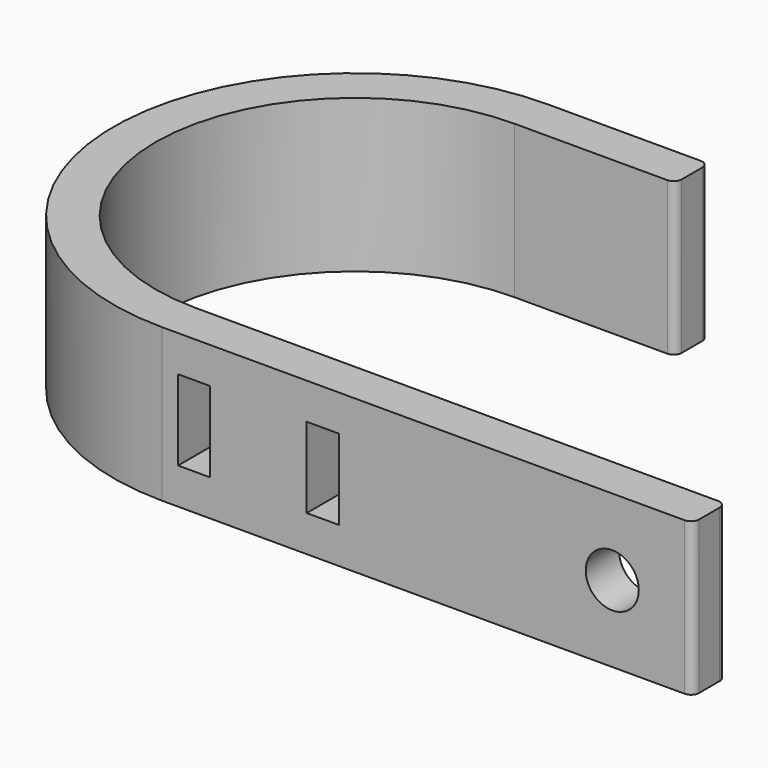
from build123d import *

# Parameters (mm, degrees)
F1_DEPTH = 4.75
F5_D     = 3.3
F6_R     = 0.5
F7_W     = 2
F7_H     = 5
F8_DEPTH = 2.6


with BuildPart() as f1:
    # F0 (on Top) → F1 (new body, symmetric)
    with BuildSketch(Plane.XY):
        with BuildLine():
            ThreePointArc((-13.1193586894, 20.7838158578), (-28.1193586894, 5.7838158578), (-13.1193586894, -9.2161841422))
            Line((-13.1193586894, -9.2161841422), (19.8806413106, -9.2161841422))
            Line((19.8806413106, -9.2161841422), (19.8806413106, -6.6161841422))
            Line((19.8806413106, -6.6161841422), (-13.1193586894, -6.6161841422))
            ThreePointArc((-13.1193586894, -6.6161841422), (-25.5193586894, 5.7838158578), (-13.1193586894, 18.1838158578))
            Line((-13.1193586894, 18.1838158578), (-3.1193586894, 18.1838158578))
            Line((-3.1193586894, 18.1838158578), (-3.1193586894, 20.7838158578))
            Line((-3.1193586894, 20.7838158578), (-13.1193586894, 20.7838158578))
        make_face()
    extrude(amount=F1_DEPTH, both=True)

    # F5 (through all)
    with Locations(Plane(origin=(0, -6.6161841422, 0), x_dir=(-1, 0, 0), z_dir=(0, 1, 0))):
        with Locations((-14.8806413106, 0)):
            Hole(F5_D / 2)

    # F6
    f6_edges = [f1.edges().sort_by_distance(p)[0] for p in [
        (-3.119359, 20.783816, 0),
        (-3.119359, 18.183816, 0),
        (19.880641, -6.616184, 0),
        (19.880641, -9.216184, 0),
    ]]
    fillet(f6_edges, radius=F6_R)

    # F7 (on face) → F8 (cut, through all)
    with BuildSketch(Plane.XZ.offset(9.2161841422)):
        with Locations((-3.1193586894, 0)):
            Rectangle(F7_W, F7_H)
        with Locations((-11.1193586894, 0)):
            Rectangle(F7_W, F7_H)
    extrude(amount=-F8_DEPTH, mode=Mode.SUBTRACT)


with BuildPart() as f3:
    # F2 (on Top) → F3 (revolve)
    with BuildSketch(Plane.XY):
        with BuildLine():
            Line((-8.1193586894, 22.7838158578), (-8.1193586894, 20.7838158578))
            Line((-8.1193586894, 20.7838158578), (-3.6193586894, 20.7838158578))
            ThreePointArc((-3.6193586894, 20.7838158578), (-5.6193298957, 22.3463806435), (-8.1193586894, 22.7838158578))
        make_face()
    revolve(axis=Axis((-8.1193586894, 21.7838158578, 0), (0, 1, 0)))


solid = Compound([f1.part, f3.part])
